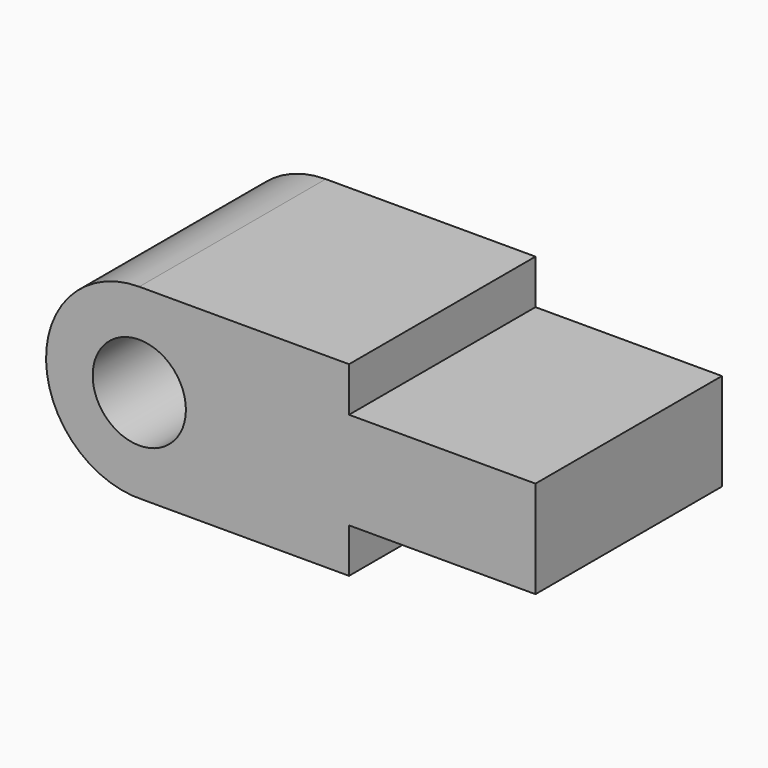
from build123d import *

# Parameters (mm, degrees)
F0_R     = 8
F1_DEPTH = 20


with BuildPart() as f1:
    # F0 (on Front) → F1 (new body, symmetric)
    with BuildSketch(Plane.XZ):
        with BuildLine():
            Line((5.230114, 20.883032), (-30.769886, 20.883032))
            ThreePointArc((-30.769886, 20.883032), (-46.765878, 4.524912), (-30.053827, -11.100937))
            Line((-30.053827, -11.100937), (5.230114, -11.100937))
            Line((5.230114, -11.100937), (5.230114, -3.462973))
            Line((5.230114, -3.462973), (37.230114, -3.462973))
            Line((37.230114, -3.462973), (37.230114, 13.24507))
            Line((37.230114, 13.24507), (5.230114, 13.24507))
            Line((5.230114, 13.24507), (5.230114, 20.883032))
        make_face()
        with Locations((-30.769886, 4.883032)):
            Circle(F0_R, mode=Mode.SUBTRACT)
    extrude(amount=F1_DEPTH, both=True)


solid = f1.part
